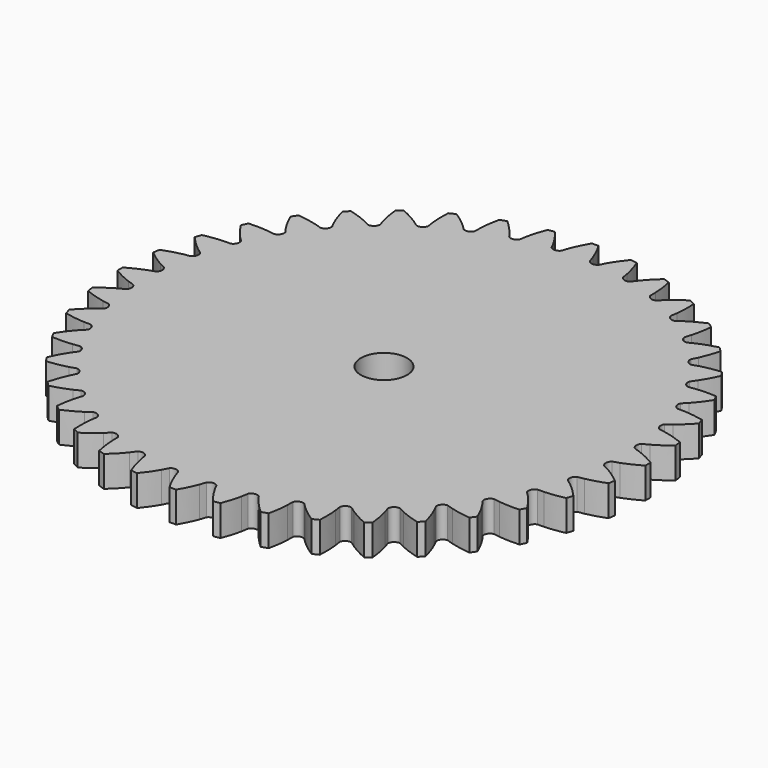
from build123d import *

# Parameters (mm, degrees)
EXTRUDE_DEPTH = 7
SKETCH_R      = 5.25
HOLE_DEPTH    = 25


with BuildPart() as part:
    # InvoluteGear → Extrude (new body)
    with BuildSketch(Plane.XY):
        with BuildLine():
            add(Edge.make_bspline(
                [(54.477305, -3.22984), (54.919908, -3.101193), (55.404504, -2.942227), (55.927796, -2.746211)],
                knots=[0, 0, 0, 0, 1, 1, 1, 1], degree=3))
            add(Edge.make_bspline(
                [(55.927796, -2.746211), (57.122187, -2.298699), (58.514128, -1.660277), (60.055864, -0.755382)],
                knots=[0, 0, 0, 0, 1, 1, 1, 1], degree=3))
            ThreePointArc((60.055864, -0.755382), (60.060307, 0.000181), (60.055245, 0.75574))
            add(Edge.make_bspline(
                [(60.055245, 0.75574), (58.514128, 1.660277), (57.122187, 2.298699), (55.927796, 2.746211)],
                knots=[0, 0, 0, 0, 1, 1, 1, 1], degree=3))
            add(Edge.make_bspline(
                [(55.927796, 2.746211), (55.404504, 2.942227), (54.919908, 3.101193), (54.477329, 3.229829)],
                knots=[0, 0, 0, 0, 1, 1, 1, 1], degree=3))
            ThreePointArc((54.477329, 3.229829), (53.932056, 4.244534), (54.311857, 5.332053))
            add(Edge.make_bspline(
                [(54.311857, 5.332053), (54.728886, 5.528354), (55.182648, 5.761171), (55.668834, 6.036634)],
                knots=[0, 0, 0, 0, 1, 1, 1, 1], degree=3))
            add(Edge.make_bspline(
                [(55.668834, 6.036634), (56.778513, 6.665481), (58.053447, 7.51379), (59.434644, 8.648724)],
                knots=[0, 0, 0, 0, 1, 1, 1, 1], degree=3))
            ThreePointArc((59.434644, 8.648724), (59.320837, 9.395681), (59.197641, 10.141146))
            add(Edge.make_bspline(
                [(59.197641, 10.141146), (57.533998, 10.793462), (56.059322, 11.206277), (54.80963, 11.461436)],
                knots=[0, 0, 0, 0, 1, 1, 1, 1], degree=3))
            add(Edge.make_bspline(
                [(54.80963, 11.461436), (54.262117, 11.573177), (53.758619, 11.654379), (53.301366, 11.712197)],
                knots=[0, 0, 0, 0, 1, 1, 1, 1], degree=3))
            ThreePointArc((53.301366, 11.712197), (52.604072, 12.629109), (52.809071, 13.762653))
            add(Edge.make_bspline(
                [(52.809071, 13.762653), (53.190258, 14.021775), (53.602012, 14.322709), (54.039121, 14.670837)],
                knots=[0, 0, 0, 0, 1, 1, 1, 1], degree=3))
            add(Edge.make_bspline(
                [(54.039121, 14.670837), (55.036765, 15.465534), (56.163297, 16.502843), (57.349947, 17.839871)],
                knots=[0, 0, 0, 0, 1, 1, 1, 1], degree=3))
            ThreePointArc((57.349947, 17.839871), (57.120691, 18.559828), (56.882396, 19.276843))
            add(Edge.make_bspline(
                [(56.882396, 19.276843), (55.137189, 19.660877), (53.616091, 19.837919), (52.341869, 19.894442)],
                knots=[0, 0, 0, 0, 1, 1, 1, 1], degree=3))
            add(Edge.make_bspline(
                [(52.341869, 19.894442), (51.783616, 19.919157), (51.273615, 19.920595), (50.812947, 19.906171)],
                knots=[0, 0, 0, 0, 1, 1, 1, 1], degree=3))
            ThreePointArc((50.812947, 19.906171), (49.980801, 20.702713), (50.005951, 21.854371))
            add(Edge.make_bspline(
                [(50.005951, 21.854371), (50.341908, 22.169933), (50.701517, 22.531575), (51.078785, 22.943796)],
                knots=[0, 0, 0, 0, 1, 1, 1, 1], degree=3))
            add(Edge.make_bspline(
                [(51.078785, 22.943796), (51.939828, 23.884774), (52.89022, 25.085541), (53.853103, 26.591741)],
                knots=[0, 0, 0, 0, 1, 1, 1, 1], degree=3))
            ThreePointArc((53.853103, 26.591741), (53.514043, 27.26697), (53.166516, 27.93788))
            add(Edge.make_bspline(
                [(53.166516, 27.93788), (51.38272, 28.044176), (49.852653, 27.981086), (48.585277, 27.83758)],
                knots=[0, 0, 0, 0, 1, 1, 1, 1], degree=3))
            add(Edge.make_bspline(
                [(48.585277, 27.83758), (48.030031, 27.774662), (47.526084, 27.6963), (47.073344, 27.609989)],
                knots=[0, 0, 0, 0, 1, 1, 1, 1], degree=3))
            ThreePointArc((47.073344, 27.609989), (46.126836, 28.266548), (45.971518, 29.407961))
            add(Edge.make_bspline(
                [(45.971518, 29.407961), (46.253974, 29.772194), (46.552583, 30.185639), (46.86072, 30.651802)],
                knots=[0, 0, 0, 0, 1, 1, 1, 1], degree=3))
            add(Edge.make_bspline(
                [(46.86072, 30.651802), (47.563961, 31.715892), (48.314811, 33.050549), (49.030217, 34.688834)],
                knots=[0, 0, 0, 0, 1, 1, 1, 1], degree=3))
            ThreePointArc((49.030217, 34.688834), (48.589703, 35.302709), (48.141501, 35.910994))
            add(Edge.make_bspline(
                [(48.141501, 35.910994), (46.363038, 35.736934), (44.861678, 35.435265), (43.632355, 35.095265)],
                knots=[0, 0, 0, 0, 1, 1, 1, 1], degree=3))
            add(Edge.make_bspline(
                [(43.632355, 35.095265), (43.093788, 34.946262), (42.608303, 34.79003), (42.174639, 34.633958)],
                knots=[0, 0, 0, 0, 1, 1, 1, 1], degree=3))
            ThreePointArc((42.174639, 34.633958), (41.137076, 35.134367), (40.805113, 36.23743))
            add(Edge.make_bspline(
                [(40.805113, 36.23743), (41.027114, 36.641365), (41.257369, 37.096432), (41.488788, 37.605059)],
                knots=[0, 0, 0, 0, 1, 1, 1, 1], degree=3))
            add(Edge.make_bspline(
                [(41.488788, 37.605059), (42.016911, 38.76606), (42.54973, 40.201744), (43.000045, 41.931773)],
                knots=[0, 0, 0, 0, 1, 1, 1, 1], degree=3))
            ThreePointArc((43.000045, 41.931773), (42.468923, 42.469178), (41.931082, 42.99986))
            add(Edge.make_bspline(
                [(41.931082, 42.99986), (40.201744, 42.54973), (38.76606, 42.016911), (37.605059, 41.488788)],
                knots=[0, 0, 0, 0, 1, 1, 1, 1], degree=3))
            add(Edge.make_bspline(
                [(37.605059, 41.488788), (37.096432, 41.257369), (36.641365, 41.027114), (36.237455, 40.805123)],
                knots=[0, 0, 0, 0, 1, 1, 1, 1], degree=3))
            ThreePointArc((36.237455, 40.805123), (35.134384, 41.137061), (34.633952, 42.174614))
            add(Edge.make_bspline(
                [(34.633952, 42.174614), (34.79003, 42.608303), (34.946262, 43.093788), (35.095265, 43.632355)],
                knots=[0, 0, 0, 0, 1, 1, 1, 1], degree=3))
            add(Edge.make_bspline(
                [(35.095265, 43.632355), (35.435265, 44.861678), (35.736934, 46.363038), (35.911068, 48.142212)],
                knots=[0, 0, 0, 0, 1, 1, 1, 1], degree=3))
            ThreePointArc((35.911068, 48.142212), (35.302416, 48.589916), (34.688181, 49.029927))
            add(Edge.make_bspline(
                [(34.688181, 49.029927), (33.050549, 48.314811), (31.715892, 47.563961), (30.651802, 46.86072)],
                knots=[0, 0, 0, 0, 1, 1, 1, 1], degree=3))
            add(Edge.make_bspline(
                [(30.651802, 46.86072), (30.185639, 46.552583), (29.772194, 46.253974), (29.407984, 45.971531)],
                knots=[0, 0, 0, 0, 1, 1, 1, 1], degree=3))
            ThreePointArc((29.407984, 45.971531), (28.266568, 46.126824), (27.609987, 47.073318))
            add(Edge.make_bspline(
                [(27.609987, 47.073318), (27.6963, 47.526084), (27.774662, 48.030031), (27.83758, 48.585277)],
                knots=[0, 0, 0, 0, 1, 1, 1, 1], degree=3))
            add(Edge.make_bspline(
                [(27.83758, 48.585277), (27.981086, 49.852653), (28.044176, 51.38272), (27.937842, 53.16723)],
                knots=[0, 0, 0, 0, 1, 1, 1, 1], degree=3))
            ThreePointArc((27.937842, 53.16723), (27.266648, 53.514208), (26.591141, 53.852714))
            add(Edge.make_bspline(
                [(26.591141, 53.852714), (25.085541, 52.89022), (23.884774, 51.939828), (22.943796, 51.078785)],
                knots=[0, 0, 0, 0, 1, 1, 1, 1], degree=3))
            add(Edge.make_bspline(
                [(22.943796, 51.078785), (22.531575, 50.701517), (22.169933, 50.341908), (21.854391, 50.005968)],
                knots=[0, 0, 0, 0, 1, 1, 1, 1], degree=3))
            ThreePointArc((21.854391, 50.005968), (20.702734, 49.980792), (19.906173, 50.812921))
            add(Edge.make_bspline(
                [(19.906173, 50.812921), (19.920595, 51.273615), (19.919157, 51.783616), (19.894442, 52.341869)],
                knots=[0, 0, 0, 0, 1, 1, 1, 1], degree=3))
            add(Edge.make_bspline(
                [(19.894442, 52.341869), (19.837919, 53.616091), (19.660877, 55.137189), (19.276694, 56.883095)],
                knots=[0, 0, 0, 0, 1, 1, 1, 1], degree=3))
            ThreePointArc((19.276694, 56.883095), (18.559484, 57.120802), (17.83934, 57.349469))
            add(Edge.make_bspline(
                [(17.83934, 57.349469), (16.502843, 56.163297), (15.465534, 55.036765), (14.670837, 54.039121)],
                knots=[0, 0, 0, 0, 1, 1, 1, 1], degree=3))
            add(Edge.make_bspline(
                [(14.670837, 54.039121), (14.322709, 53.602012), (14.021775, 53.190258), (13.76267, 52.809091)],
                knots=[0, 0, 0, 0, 1, 1, 1, 1], degree=3))
            ThreePointArc((13.76267, 52.809091), (12.629131, 52.604067), (11.712203, 53.301341))
            add(Edge.make_bspline(
                [(11.712203, 53.301341), (11.654379, 53.758619), (11.573177, 54.262117), (11.461436, 54.80963)],
                knots=[0, 0, 0, 0, 1, 1, 1, 1], degree=3))
            add(Edge.make_bspline(
                [(11.461436, 54.80963), (11.206277, 56.059322), (10.793462, 57.533998), (10.140889, 59.198309)],
                knots=[0, 0, 0, 0, 1, 1, 1, 1], degree=3))
            ThreePointArc((10.140889, 59.198309), (9.395323, 59.320893), (8.648274, 59.434089))
            add(Edge.make_bspline(
                [(8.648274, 59.434089), (7.51379, 58.053447), (6.665481, 56.778513), (6.036634, 55.668834)],
                knots=[0, 0, 0, 0, 1, 1, 1, 1], degree=3))
            add(Edge.make_bspline(
                [(6.036634, 55.668834), (5.761171, 55.182648), (5.528354, 54.728886), (5.332067, 54.31188)],
                knots=[0, 0, 0, 0, 1, 1, 1, 1], degree=3))
            ThreePointArc((5.332067, 54.31188), (4.244556, 53.932055), (3.22984, 54.477305))
            add(Edge.make_bspline(
                [(3.22984, 54.477305), (3.101193, 54.919908), (2.942227, 55.404504), (2.746211, 55.927796)],
                knots=[0, 0, 0, 0, 1, 1, 1, 1], degree=3))
            add(Edge.make_bspline(
                [(2.746211, 55.927796), (2.298699, 57.122187), (1.660277, 58.514128), (0.755382, 60.055864)],
                knots=[0, 0, 0, 0, 1, 1, 1, 1], degree=3))
            ThreePointArc((0.755382, 60.055864), (-0.000181, 60.060307), (-0.75574, 60.055245))
            add(Edge.make_bspline(
                [(-0.75574, 60.055245), (-1.660277, 58.514128), (-2.298699, 57.122187), (-2.746211, 55.927796)],
                knots=[0, 0, 0, 0, 1, 1, 1, 1], degree=3))
            add(Edge.make_bspline(
                [(-2.746211, 55.927796), (-2.942227, 55.404504), (-3.101193, 54.919908), (-3.229829, 54.477329)],
                knots=[0, 0, 0, 0, 1, 1, 1, 1], degree=3))
            ThreePointArc((-3.229829, 54.477329), (-4.244534, 53.932056), (-5.332053, 54.311857))
            add(Edge.make_bspline(
                [(-5.332053, 54.311857), (-5.528354, 54.728886), (-5.761171, 55.182648), (-6.036634, 55.668834)],
                knots=[0, 0, 0, 0, 1, 1, 1, 1], degree=3))
            add(Edge.make_bspline(
                [(-6.036634, 55.668834), (-6.665481, 56.778513), (-7.51379, 58.053447), (-8.648724, 59.434644)],
                knots=[0, 0, 0, 0, 1, 1, 1, 1], degree=3))
            ThreePointArc((-8.648724, 59.434644), (-9.395681, 59.320837), (-10.141146, 59.197641))
            add(Edge.make_bspline(
                [(-10.141146, 59.197641), (-10.793462, 57.533998), (-11.206277, 56.059322), (-11.461436, 54.80963)],
                knots=[0, 0, 0, 0, 1, 1, 1, 1], degree=3))
            add(Edge.make_bspline(
                [(-11.461436, 54.80963), (-11.573177, 54.262117), (-11.654379, 53.758619), (-11.712197, 53.301366)],
                knots=[0, 0, 0, 0, 1, 1, 1, 1], degree=3))
            ThreePointArc((-11.712197, 53.301366), (-12.629109, 52.604072), (-13.762653, 52.809071))
            add(Edge.make_bspline(
                [(-13.762653, 52.809071), (-14.021775, 53.190258), (-14.322709, 53.602012), (-14.670837, 54.039121)],
                knots=[0, 0, 0, 0, 1, 1, 1, 1], degree=3))
            add(Edge.make_bspline(
                [(-14.670837, 54.039121), (-15.465534, 55.036765), (-16.502843, 56.163297), (-17.839871, 57.349947)],
                knots=[0, 0, 0, 0, 1, 1, 1, 1], degree=3))
            ThreePointArc((-17.839871, 57.349947), (-18.559828, 57.120691), (-19.276843, 56.882396))
            add(Edge.make_bspline(
                [(-19.276843, 56.882396), (-19.660877, 55.137189), (-19.837919, 53.616091), (-19.894442, 52.341869)],
                knots=[0, 0, 0, 0, 1, 1, 1, 1], degree=3))
            add(Edge.make_bspline(
                [(-19.894442, 52.341869), (-19.919157, 51.783616), (-19.920595, 51.273615), (-19.906171, 50.812947)],
                knots=[0, 0, 0, 0, 1, 1, 1, 1], degree=3))
            ThreePointArc((-19.906171, 50.812947), (-20.702713, 49.980801), (-21.854371, 50.005951))
            add(Edge.make_bspline(
                [(-21.854371, 50.005951), (-22.169933, 50.341908), (-22.531575, 50.701517), (-22.943796, 51.078785)],
                knots=[0, 0, 0, 0, 1, 1, 1, 1], degree=3))
            add(Edge.make_bspline(
                [(-22.943796, 51.078785), (-23.884774, 51.939828), (-25.085541, 52.89022), (-26.591741, 53.853103)],
                knots=[0, 0, 0, 0, 1, 1, 1, 1], degree=3))
            ThreePointArc((-26.591741, 53.853103), (-27.26697, 53.514043), (-27.93788, 53.166516))
            add(Edge.make_bspline(
                [(-27.93788, 53.166516), (-28.044176, 51.38272), (-27.981086, 49.852653), (-27.83758, 48.585277)],
                knots=[0, 0, 0, 0, 1, 1, 1, 1], degree=3))
            add(Edge.make_bspline(
                [(-27.83758, 48.585277), (-27.774662, 48.030031), (-27.6963, 47.526084), (-27.609989, 47.073344)],
                knots=[0, 0, 0, 0, 1, 1, 1, 1], degree=3))
            ThreePointArc((-27.609989, 47.073344), (-28.266548, 46.126836), (-29.407961, 45.971518))
            add(Edge.make_bspline(
                [(-29.407961, 45.971518), (-29.772194, 46.253974), (-30.185639, 46.552583), (-30.651802, 46.86072)],
                knots=[0, 0, 0, 0, 1, 1, 1, 1], degree=3))
            add(Edge.make_bspline(
                [(-30.651802, 46.86072), (-31.715892, 47.563961), (-33.050549, 48.314811), (-34.688834, 49.030217)],
                knots=[0, 0, 0, 0, 1, 1, 1, 1], degree=3))
            ThreePointArc((-34.688834, 49.030217), (-35.302709, 48.589703), (-35.910994, 48.141501))
            add(Edge.make_bspline(
                [(-35.910994, 48.141501), (-35.736934, 46.363038), (-35.435265, 44.861678), (-35.095265, 43.632355)],
                knots=[0, 0, 0, 0, 1, 1, 1, 1], degree=3))
            add(Edge.make_bspline(
                [(-35.095265, 43.632355), (-34.946262, 43.093788), (-34.79003, 42.608303), (-34.633958, 42.174639)],
                knots=[0, 0, 0, 0, 1, 1, 1, 1], degree=3))
            ThreePointArc((-34.633958, 42.174639), (-35.134367, 41.137076), (-36.23743, 40.805113))
            add(Edge.make_bspline(
                [(-36.23743, 40.805113), (-36.641365, 41.027114), (-37.096432, 41.257369), (-37.605059, 41.488788)],
                knots=[0, 0, 0, 0, 1, 1, 1, 1], degree=3))
            add(Edge.make_bspline(
                [(-37.605059, 41.488788), (-38.76606, 42.016911), (-40.201744, 42.54973), (-41.931773, 43.000045)],
                knots=[0, 0, 0, 0, 1, 1, 1, 1], degree=3))
            ThreePointArc((-41.931773, 43.000045), (-42.469178, 42.468923), (-42.99986, 41.931082))
            add(Edge.make_bspline(
                [(-42.99986, 41.931082), (-42.54973, 40.201744), (-42.016911, 38.76606), (-41.488788, 37.605059)],
                knots=[0, 0, 0, 0, 1, 1, 1, 1], degree=3))
            add(Edge.make_bspline(
                [(-41.488788, 37.605059), (-41.257369, 37.096432), (-41.027114, 36.641365), (-40.805123, 36.237455)],
                knots=[0, 0, 0, 0, 1, 1, 1, 1], degree=3))
            ThreePointArc((-40.805123, 36.237455), (-41.137061, 35.134384), (-42.174614, 34.633952))
            add(Edge.make_bspline(
                [(-42.174614, 34.633952), (-42.608303, 34.79003), (-43.093788, 34.946262), (-43.632355, 35.095265)],
                knots=[0, 0, 0, 0, 1, 1, 1, 1], degree=3))
            add(Edge.make_bspline(
                [(-43.632355, 35.095265), (-44.861678, 35.435265), (-46.363038, 35.736934), (-48.142212, 35.911068)],
                knots=[0, 0, 0, 0, 1, 1, 1, 1], degree=3))
            ThreePointArc((-48.142212, 35.911068), (-48.589916, 35.302416), (-49.029927, 34.688181))
            add(Edge.make_bspline(
                [(-49.029927, 34.688181), (-48.314811, 33.050549), (-47.563961, 31.715892), (-46.86072, 30.651802)],
                knots=[0, 0, 0, 0, 1, 1, 1, 1], degree=3))
            add(Edge.make_bspline(
                [(-46.86072, 30.651802), (-46.552583, 30.185639), (-46.253974, 29.772194), (-45.971531, 29.407984)],
                knots=[0, 0, 0, 0, 1, 1, 1, 1], degree=3))
            ThreePointArc((-45.971531, 29.407984), (-46.126824, 28.266568), (-47.073318, 27.609987))
            add(Edge.make_bspline(
                [(-47.073318, 27.609987), (-47.526084, 27.6963), (-48.030031, 27.774662), (-48.585277, 27.83758)],
                knots=[0, 0, 0, 0, 1, 1, 1, 1], degree=3))
            add(Edge.make_bspline(
                [(-48.585277, 27.83758), (-49.852653, 27.981086), (-51.38272, 28.044176), (-53.16723, 27.937842)],
                knots=[0, 0, 0, 0, 1, 1, 1, 1], degree=3))
            ThreePointArc((-53.16723, 27.937842), (-53.514208, 27.266648), (-53.852714, 26.591141))
            add(Edge.make_bspline(
                [(-53.852714, 26.591141), (-52.89022, 25.085541), (-51.939828, 23.884774), (-51.078785, 22.943796)],
                knots=[0, 0, 0, 0, 1, 1, 1, 1], degree=3))
            add(Edge.make_bspline(
                [(-51.078785, 22.943796), (-50.701517, 22.531575), (-50.341908, 22.169933), (-50.005968, 21.854391)],
                knots=[0, 0, 0, 0, 1, 1, 1, 1], degree=3))
            ThreePointArc((-50.005968, 21.854391), (-49.980792, 20.702734), (-50.812921, 19.906173))
            add(Edge.make_bspline(
                [(-50.812921, 19.906173), (-51.273615, 19.920595), (-51.783616, 19.919157), (-52.341869, 19.894442)],
                knots=[0, 0, 0, 0, 1, 1, 1, 1], degree=3))
            add(Edge.make_bspline(
                [(-52.341869, 19.894442), (-53.616091, 19.837919), (-55.137189, 19.660877), (-56.883095, 19.276694)],
                knots=[0, 0, 0, 0, 1, 1, 1, 1], degree=3))
            ThreePointArc((-56.883095, 19.276694), (-57.120802, 18.559484), (-57.349469, 17.83934))
            add(Edge.make_bspline(
                [(-57.349469, 17.83934), (-56.163297, 16.502843), (-55.036765, 15.465534), (-54.039121, 14.670837)],
                knots=[0, 0, 0, 0, 1, 1, 1, 1], degree=3))
            add(Edge.make_bspline(
                [(-54.039121, 14.670837), (-53.602012, 14.322709), (-53.190258, 14.021775), (-52.809091, 13.76267)],
                knots=[0, 0, 0, 0, 1, 1, 1, 1], degree=3))
            ThreePointArc((-52.809091, 13.76267), (-52.604067, 12.629131), (-53.301341, 11.712203))
            add(Edge.make_bspline(
                [(-53.301341, 11.712203), (-53.758619, 11.654379), (-54.262117, 11.573177), (-54.80963, 11.461436)],
                knots=[0, 0, 0, 0, 1, 1, 1, 1], degree=3))
            add(Edge.make_bspline(
                [(-54.80963, 11.461436), (-56.059322, 11.206277), (-57.533998, 10.793462), (-59.198309, 10.140889)],
                knots=[0, 0, 0, 0, 1, 1, 1, 1], degree=3))
            ThreePointArc((-59.198309, 10.140889), (-59.320893, 9.395323), (-59.434089, 8.648274))
            add(Edge.make_bspline(
                [(-59.434089, 8.648274), (-58.053447, 7.51379), (-56.778513, 6.665481), (-55.668834, 6.036634)],
                knots=[0, 0, 0, 0, 1, 1, 1, 1], degree=3))
            add(Edge.make_bspline(
                [(-55.668834, 6.036634), (-55.182648, 5.761171), (-54.728886, 5.528354), (-54.31188, 5.332067)],
                knots=[0, 0, 0, 0, 1, 1, 1, 1], degree=3))
            ThreePointArc((-54.31188, 5.332067), (-53.932055, 4.244556), (-54.477305, 3.22984))
            add(Edge.make_bspline(
                [(-54.477305, 3.22984), (-54.919908, 3.101193), (-55.404504, 2.942227), (-55.927796, 2.746211)],
                knots=[0, 0, 0, 0, 1, 1, 1, 1], degree=3))
            add(Edge.make_bspline(
                [(-55.927796, 2.746211), (-57.122187, 2.298699), (-58.514128, 1.660277), (-60.055864, 0.755382)],
                knots=[0, 0, 0, 0, 1, 1, 1, 1], degree=3))
            ThreePointArc((-60.055864, 0.755382), (-60.060307, -0.000181), (-60.055245, -0.75574))
            add(Edge.make_bspline(
                [(-60.055245, -0.75574), (-58.514128, -1.660277), (-57.122187, -2.298699), (-55.927796, -2.746211)],
                knots=[0, 0, 0, 0, 1, 1, 1, 1], degree=3))
            add(Edge.make_bspline(
                [(-55.927796, -2.746211), (-55.404504, -2.942227), (-54.919908, -3.101193), (-54.477329, -3.229829)],
                knots=[0, 0, 0, 0, 1, 1, 1, 1], degree=3))
            ThreePointArc((-54.477329, -3.229829), (-53.932056, -4.244534), (-54.311857, -5.332053))
            add(Edge.make_bspline(
                [(-54.311857, -5.332053), (-54.728886, -5.528354), (-55.182648, -5.761171), (-55.668834, -6.036634)],
                knots=[0, 0, 0, 0, 1, 1, 1, 1], degree=3))
            add(Edge.make_bspline(
                [(-55.668834, -6.036634), (-56.778513, -6.665481), (-58.053447, -7.51379), (-59.434644, -8.648724)],
                knots=[0, 0, 0, 0, 1, 1, 1, 1], degree=3))
            ThreePointArc((-59.434644, -8.648724), (-59.320837, -9.395681), (-59.197641, -10.141146))
            add(Edge.make_bspline(
                [(-59.197641, -10.141146), (-57.533998, -10.793462), (-56.059322, -11.206277), (-54.80963, -11.461436)],
                knots=[0, 0, 0, 0, 1, 1, 1, 1], degree=3))
            add(Edge.make_bspline(
                [(-54.80963, -11.461436), (-54.262117, -11.573177), (-53.758619, -11.654379), (-53.301366, -11.712197)],
                knots=[0, 0, 0, 0, 1, 1, 1, 1], degree=3))
            ThreePointArc((-53.301366, -11.712197), (-52.604072, -12.629109), (-52.809071, -13.762653))
            add(Edge.make_bspline(
                [(-52.809071, -13.762653), (-53.190258, -14.021775), (-53.602012, -14.322709), (-54.039121, -14.670837)],
                knots=[0, 0, 0, 0, 1, 1, 1, 1], degree=3))
            add(Edge.make_bspline(
                [(-54.039121, -14.670837), (-55.036765, -15.465534), (-56.163297, -16.502843), (-57.349947, -17.839871)],
                knots=[0, 0, 0, 0, 1, 1, 1, 1], degree=3))
            ThreePointArc((-57.349947, -17.839871), (-57.120691, -18.559828), (-56.882396, -19.276843))
            add(Edge.make_bspline(
                [(-56.882396, -19.276843), (-55.137189, -19.660877), (-53.616091, -19.837919), (-52.341869, -19.894442)],
                knots=[0, 0, 0, 0, 1, 1, 1, 1], degree=3))
            add(Edge.make_bspline(
                [(-52.341869, -19.894442), (-51.783616, -19.919157), (-51.273615, -19.920595), (-50.812947, -19.906171)],
                knots=[0, 0, 0, 0, 1, 1, 1, 1], degree=3))
            ThreePointArc((-50.812947, -19.906171), (-49.980801, -20.702713), (-50.005951, -21.854371))
            add(Edge.make_bspline(
                [(-50.005951, -21.854371), (-50.341908, -22.169933), (-50.701517, -22.531575), (-51.078785, -22.943796)],
                knots=[0, 0, 0, 0, 1, 1, 1, 1], degree=3))
            add(Edge.make_bspline(
                [(-51.078785, -22.943796), (-51.939828, -23.884774), (-52.89022, -25.085541), (-53.853103, -26.591741)],
                knots=[0, 0, 0, 0, 1, 1, 1, 1], degree=3))
            ThreePointArc((-53.853103, -26.591741), (-53.514043, -27.26697), (-53.166516, -27.93788))
            add(Edge.make_bspline(
                [(-53.166516, -27.93788), (-51.38272, -28.044176), (-49.852653, -27.981086), (-48.585277, -27.83758)],
                knots=[0, 0, 0, 0, 1, 1, 1, 1], degree=3))
            add(Edge.make_bspline(
                [(-48.585277, -27.83758), (-48.030031, -27.774662), (-47.526084, -27.6963), (-47.073344, -27.609989)],
                knots=[0, 0, 0, 0, 1, 1, 1, 1], degree=3))
            ThreePointArc((-47.073344, -27.609989), (-46.126836, -28.266548), (-45.971518, -29.407961))
            add(Edge.make_bspline(
                [(-45.971518, -29.407961), (-46.253974, -29.772194), (-46.552583, -30.185639), (-46.86072, -30.651802)],
                knots=[0, 0, 0, 0, 1, 1, 1, 1], degree=3))
            add(Edge.make_bspline(
                [(-46.86072, -30.651802), (-47.563961, -31.715892), (-48.314811, -33.050549), (-49.030217, -34.688834)],
                knots=[0, 0, 0, 0, 1, 1, 1, 1], degree=3))
            ThreePointArc((-49.030217, -34.688834), (-48.589703, -35.302709), (-48.141501, -35.910994))
            add(Edge.make_bspline(
                [(-48.141501, -35.910994), (-46.363038, -35.736934), (-44.861678, -35.435265), (-43.632355, -35.095265)],
                knots=[0, 0, 0, 0, 1, 1, 1, 1], degree=3))
            add(Edge.make_bspline(
                [(-43.632355, -35.095265), (-43.093788, -34.946262), (-42.608303, -34.79003), (-42.174639, -34.633958)],
                knots=[0, 0, 0, 0, 1, 1, 1, 1], degree=3))
            ThreePointArc((-42.174639, -34.633958), (-41.137076, -35.134367), (-40.805113, -36.23743))
            add(Edge.make_bspline(
                [(-40.805113, -36.23743), (-41.027114, -36.641365), (-41.257369, -37.096432), (-41.488788, -37.605059)],
                knots=[0, 0, 0, 0, 1, 1, 1, 1], degree=3))
            add(Edge.make_bspline(
                [(-41.488788, -37.605059), (-42.016911, -38.76606), (-42.54973, -40.201744), (-43.000045, -41.931773)],
                knots=[0, 0, 0, 0, 1, 1, 1, 1], degree=3))
            ThreePointArc((-43.000045, -41.931773), (-42.468923, -42.469178), (-41.931082, -42.99986))
            add(Edge.make_bspline(
                [(-41.931082, -42.99986), (-40.201744, -42.54973), (-38.76606, -42.016911), (-37.605059, -41.488788)],
                knots=[0, 0, 0, 0, 1, 1, 1, 1], degree=3))
            add(Edge.make_bspline(
                [(-37.605059, -41.488788), (-37.096432, -41.257369), (-36.641365, -41.027114), (-36.237455, -40.805123)],
                knots=[0, 0, 0, 0, 1, 1, 1, 1], degree=3))
            ThreePointArc((-36.237455, -40.805123), (-35.134384, -41.137061), (-34.633952, -42.174614))
            add(Edge.make_bspline(
                [(-34.633952, -42.174614), (-34.79003, -42.608303), (-34.946262, -43.093788), (-35.095265, -43.632355)],
                knots=[0, 0, 0, 0, 1, 1, 1, 1], degree=3))
            add(Edge.make_bspline(
                [(-35.095265, -43.632355), (-35.435265, -44.861678), (-35.736934, -46.363038), (-35.911068, -48.142212)],
                knots=[0, 0, 0, 0, 1, 1, 1, 1], degree=3))
            ThreePointArc((-35.911068, -48.142212), (-35.302416, -48.589916), (-34.688181, -49.029927))
            add(Edge.make_bspline(
                [(-34.688181, -49.029927), (-33.050549, -48.314811), (-31.715892, -47.563961), (-30.651802, -46.86072)],
                knots=[0, 0, 0, 0, 1, 1, 1, 1], degree=3))
            add(Edge.make_bspline(
                [(-30.651802, -46.86072), (-30.185639, -46.552583), (-29.772194, -46.253974), (-29.407984, -45.971531)],
                knots=[0, 0, 0, 0, 1, 1, 1, 1], degree=3))
            ThreePointArc((-29.407984, -45.971531), (-28.266568, -46.126824), (-27.609987, -47.073318))
            add(Edge.make_bspline(
                [(-27.609987, -47.073318), (-27.6963, -47.526084), (-27.774662, -48.030031), (-27.83758, -48.585277)],
                knots=[0, 0, 0, 0, 1, 1, 1, 1], degree=3))
            add(Edge.make_bspline(
                [(-27.83758, -48.585277), (-27.981086, -49.852653), (-28.044176, -51.38272), (-27.937842, -53.16723)],
                knots=[0, 0, 0, 0, 1, 1, 1, 1], degree=3))
            ThreePointArc((-27.937842, -53.16723), (-27.266648, -53.514208), (-26.591141, -53.852714))
            add(Edge.make_bspline(
                [(-26.591141, -53.852714), (-25.085541, -52.89022), (-23.884774, -51.939828), (-22.943796, -51.078785)],
                knots=[0, 0, 0, 0, 1, 1, 1, 1], degree=3))
            add(Edge.make_bspline(
                [(-22.943796, -51.078785), (-22.531575, -50.701517), (-22.169933, -50.341908), (-21.854391, -50.005968)],
                knots=[0, 0, 0, 0, 1, 1, 1, 1], degree=3))
            ThreePointArc((-21.854391, -50.005968), (-20.702734, -49.980792), (-19.906173, -50.812921))
            add(Edge.make_bspline(
                [(-19.906173, -50.812921), (-19.920595, -51.273615), (-19.919157, -51.783616), (-19.894442, -52.341869)],
                knots=[0, 0, 0, 0, 1, 1, 1, 1], degree=3))
            add(Edge.make_bspline(
                [(-19.894442, -52.341869), (-19.837919, -53.616091), (-19.660877, -55.137189), (-19.276694, -56.883095)],
                knots=[0, 0, 0, 0, 1, 1, 1, 1], degree=3))
            ThreePointArc((-19.276694, -56.883095), (-18.559484, -57.120802), (-17.83934, -57.349469))
            add(Edge.make_bspline(
                [(-17.83934, -57.349469), (-16.502843, -56.163297), (-15.465534, -55.036765), (-14.670837, -54.039121)],
                knots=[0, 0, 0, 0, 1, 1, 1, 1], degree=3))
            add(Edge.make_bspline(
                [(-14.670837, -54.039121), (-14.322709, -53.602012), (-14.021775, -53.190258), (-13.76267, -52.809091)],
                knots=[0, 0, 0, 0, 1, 1, 1, 1], degree=3))
            ThreePointArc((-13.76267, -52.809091), (-12.629131, -52.604067), (-11.712203, -53.301341))
            add(Edge.make_bspline(
                [(-11.712203, -53.301341), (-11.654379, -53.758619), (-11.573177, -54.262117), (-11.461436, -54.80963)],
                knots=[0, 0, 0, 0, 1, 1, 1, 1], degree=3))
            add(Edge.make_bspline(
                [(-11.461436, -54.80963), (-11.206277, -56.059322), (-10.793462, -57.533998), (-10.140889, -59.198309)],
                knots=[0, 0, 0, 0, 1, 1, 1, 1], degree=3))
            ThreePointArc((-10.140889, -59.198309), (-9.395323, -59.320893), (-8.648274, -59.434089))
            add(Edge.make_bspline(
                [(-8.648274, -59.434089), (-7.51379, -58.053447), (-6.665481, -56.778513), (-6.036634, -55.668834)],
                knots=[0, 0, 0, 0, 1, 1, 1, 1], degree=3))
            add(Edge.make_bspline(
                [(-6.036634, -55.668834), (-5.761171, -55.182648), (-5.528354, -54.728886), (-5.332067, -54.31188)],
                knots=[0, 0, 0, 0, 1, 1, 1, 1], degree=3))
            ThreePointArc((-5.332067, -54.31188), (-4.244556, -53.932055), (-3.22984, -54.477305))
            add(Edge.make_bspline(
                [(-3.22984, -54.477305), (-3.101193, -54.919908), (-2.942227, -55.404504), (-2.746211, -55.927796)],
                knots=[0, 0, 0, 0, 1, 1, 1, 1], degree=3))
            add(Edge.make_bspline(
                [(-2.746211, -55.927796), (-2.298699, -57.122187), (-1.660277, -58.514128), (-0.755382, -60.055864)],
                knots=[0, 0, 0, 0, 1, 1, 1, 1], degree=3))
            ThreePointArc((-0.755382, -60.055864), (0.000181, -60.060307), (0.75574, -60.055245))
            add(Edge.make_bspline(
                [(0.75574, -60.055245), (1.660277, -58.514128), (2.298699, -57.122187), (2.746211, -55.927796)],
                knots=[0, 0, 0, 0, 1, 1, 1, 1], degree=3))
            add(Edge.make_bspline(
                [(2.746211, -55.927796), (2.942227, -55.404504), (3.101193, -54.919908), (3.229829, -54.477329)],
                knots=[0, 0, 0, 0, 1, 1, 1, 1], degree=3))
            ThreePointArc((3.229829, -54.477329), (4.244534, -53.932056), (5.332053, -54.311857))
            add(Edge.make_bspline(
                [(5.332053, -54.311857), (5.528354, -54.728886), (5.761171, -55.182648), (6.036634, -55.668834)],
                knots=[0, 0, 0, 0, 1, 1, 1, 1], degree=3))
            add(Edge.make_bspline(
                [(6.036634, -55.668834), (6.665481, -56.778513), (7.51379, -58.053447), (8.648724, -59.434644)],
                knots=[0, 0, 0, 0, 1, 1, 1, 1], degree=3))
            ThreePointArc((8.648724, -59.434644), (9.395681, -59.320837), (10.141146, -59.197641))
            add(Edge.make_bspline(
                [(10.141146, -59.197641), (10.793462, -57.533998), (11.206277, -56.059322), (11.461436, -54.80963)],
                knots=[0, 0, 0, 0, 1, 1, 1, 1], degree=3))
            add(Edge.make_bspline(
                [(11.461436, -54.80963), (11.573177, -54.262117), (11.654379, -53.758619), (11.712197, -53.301366)],
                knots=[0, 0, 0, 0, 1, 1, 1, 1], degree=3))
            ThreePointArc((11.712197, -53.301366), (12.629109, -52.604072), (13.762653, -52.809071))
            add(Edge.make_bspline(
                [(13.762653, -52.809071), (14.021775, -53.190258), (14.322709, -53.602012), (14.670837, -54.039121)],
                knots=[0, 0, 0, 0, 1, 1, 1, 1], degree=3))
            add(Edge.make_bspline(
                [(14.670837, -54.039121), (15.465534, -55.036765), (16.502843, -56.163297), (17.839871, -57.349947)],
                knots=[0, 0, 0, 0, 1, 1, 1, 1], degree=3))
            ThreePointArc((17.839871, -57.349947), (18.559828, -57.120691), (19.276843, -56.882396))
            add(Edge.make_bspline(
                [(19.276843, -56.882396), (19.660877, -55.137189), (19.837919, -53.616091), (19.894442, -52.341869)],
                knots=[0, 0, 0, 0, 1, 1, 1, 1], degree=3))
            add(Edge.make_bspline(
                [(19.894442, -52.341869), (19.919157, -51.783616), (19.920595, -51.273615), (19.906171, -50.812947)],
                knots=[0, 0, 0, 0, 1, 1, 1, 1], degree=3))
            ThreePointArc((19.906171, -50.812947), (20.702713, -49.980801), (21.854371, -50.005951))
            add(Edge.make_bspline(
                [(21.854371, -50.005951), (22.169933, -50.341908), (22.531575, -50.701517), (22.943796, -51.078785)],
                knots=[0, 0, 0, 0, 1, 1, 1, 1], degree=3))
            add(Edge.make_bspline(
                [(22.943796, -51.078785), (23.884774, -51.939828), (25.085541, -52.89022), (26.591741, -53.853103)],
                knots=[0, 0, 0, 0, 1, 1, 1, 1], degree=3))
            ThreePointArc((26.591741, -53.853103), (27.26697, -53.514043), (27.93788, -53.166516))
            add(Edge.make_bspline(
                [(27.93788, -53.166516), (28.044176, -51.38272), (27.981086, -49.852653), (27.83758, -48.585277)],
                knots=[0, 0, 0, 0, 1, 1, 1, 1], degree=3))
            add(Edge.make_bspline(
                [(27.83758, -48.585277), (27.774662, -48.030031), (27.6963, -47.526084), (27.609989, -47.073344)],
                knots=[0, 0, 0, 0, 1, 1, 1, 1], degree=3))
            ThreePointArc((27.609989, -47.073344), (28.266548, -46.126836), (29.407961, -45.971518))
            add(Edge.make_bspline(
                [(29.407961, -45.971518), (29.772194, -46.253974), (30.185639, -46.552583), (30.651802, -46.86072)],
                knots=[0, 0, 0, 0, 1, 1, 1, 1], degree=3))
            add(Edge.make_bspline(
                [(30.651802, -46.86072), (31.715892, -47.563961), (33.050549, -48.314811), (34.688834, -49.030217)],
                knots=[0, 0, 0, 0, 1, 1, 1, 1], degree=3))
            ThreePointArc((34.688834, -49.030217), (35.302709, -48.589703), (35.910994, -48.141501))
            add(Edge.make_bspline(
                [(35.910994, -48.141501), (35.736934, -46.363038), (35.435265, -44.861678), (35.095265, -43.632355)],
                knots=[0, 0, 0, 0, 1, 1, 1, 1], degree=3))
            add(Edge.make_bspline(
                [(35.095265, -43.632355), (34.946262, -43.093788), (34.79003, -42.608303), (34.633958, -42.174639)],
                knots=[0, 0, 0, 0, 1, 1, 1, 1], degree=3))
            ThreePointArc((34.633958, -42.174639), (35.134367, -41.137076), (36.23743, -40.805113))
            add(Edge.make_bspline(
                [(36.23743, -40.805113), (36.641365, -41.027114), (37.096432, -41.257369), (37.605059, -41.488788)],
                knots=[0, 0, 0, 0, 1, 1, 1, 1], degree=3))
            add(Edge.make_bspline(
                [(37.605059, -41.488788), (38.76606, -42.016911), (40.201744, -42.54973), (41.931773, -43.000045)],
                knots=[0, 0, 0, 0, 1, 1, 1, 1], degree=3))
            ThreePointArc((41.931773, -43.000045), (42.469178, -42.468923), (42.99986, -41.931082))
            add(Edge.make_bspline(
                [(42.99986, -41.931082), (42.54973, -40.201744), (42.016911, -38.76606), (41.488788, -37.605059)],
                knots=[0, 0, 0, 0, 1, 1, 1, 1], degree=3))
            add(Edge.make_bspline(
                [(41.488788, -37.605059), (41.257369, -37.096432), (41.027114, -36.641365), (40.805123, -36.237455)],
                knots=[0, 0, 0, 0, 1, 1, 1, 1], degree=3))
            ThreePointArc((40.805123, -36.237455), (41.137061, -35.134384), (42.174614, -34.633952))
            add(Edge.make_bspline(
                [(42.174614, -34.633952), (42.608303, -34.79003), (43.093788, -34.946262), (43.632355, -35.095265)],
                knots=[0, 0, 0, 0, 1, 1, 1, 1], degree=3))
            add(Edge.make_bspline(
                [(43.632355, -35.095265), (44.861678, -35.435265), (46.363038, -35.736934), (48.142212, -35.911068)],
                knots=[0, 0, 0, 0, 1, 1, 1, 1], degree=3))
            ThreePointArc((48.142212, -35.911068), (48.589916, -35.302416), (49.029927, -34.688181))
            add(Edge.make_bspline(
                [(49.029927, -34.688181), (48.314811, -33.050549), (47.563961, -31.715892), (46.86072, -30.651802)],
                knots=[0, 0, 0, 0, 1, 1, 1, 1], degree=3))
            add(Edge.make_bspline(
                [(46.86072, -30.651802), (46.552583, -30.185639), (46.253974, -29.772194), (45.971531, -29.407984)],
                knots=[0, 0, 0, 0, 1, 1, 1, 1], degree=3))
            ThreePointArc((45.971531, -29.407984), (46.126824, -28.266568), (47.073318, -27.609987))
            add(Edge.make_bspline(
                [(47.073318, -27.609987), (47.526084, -27.6963), (48.030031, -27.774662), (48.585277, -27.83758)],
                knots=[0, 0, 0, 0, 1, 1, 1, 1], degree=3))
            add(Edge.make_bspline(
                [(48.585277, -27.83758), (49.852653, -27.981086), (51.38272, -28.044176), (53.16723, -27.937842)],
                knots=[0, 0, 0, 0, 1, 1, 1, 1], degree=3))
            ThreePointArc((53.16723, -27.937842), (53.514208, -27.266648), (53.852714, -26.591141))
            add(Edge.make_bspline(
                [(53.852714, -26.591141), (52.89022, -25.085541), (51.939828, -23.884774), (51.078785, -22.943796)],
                knots=[0, 0, 0, 0, 1, 1, 1, 1], degree=3))
            add(Edge.make_bspline(
                [(51.078785, -22.943796), (50.701517, -22.531575), (50.341908, -22.169933), (50.005968, -21.854391)],
                knots=[0, 0, 0, 0, 1, 1, 1, 1], degree=3))
            ThreePointArc((50.005968, -21.854391), (49.980792, -20.702734), (50.812921, -19.906173))
            add(Edge.make_bspline(
                [(50.812921, -19.906173), (51.273615, -19.920595), (51.783616, -19.919157), (52.341869, -19.894442)],
                knots=[0, 0, 0, 0, 1, 1, 1, 1], degree=3))
            add(Edge.make_bspline(
                [(52.341869, -19.894442), (53.616091, -19.837919), (55.137189, -19.660877), (56.883095, -19.276694)],
                knots=[0, 0, 0, 0, 1, 1, 1, 1], degree=3))
            ThreePointArc((56.883095, -19.276694), (57.120802, -18.559484), (57.349469, -17.83934))
            add(Edge.make_bspline(
                [(57.349469, -17.83934), (56.163297, -16.502843), (55.036765, -15.465534), (54.039121, -14.670837)],
                knots=[0, 0, 0, 0, 1, 1, 1, 1], degree=3))
            add(Edge.make_bspline(
                [(54.039121, -14.670837), (53.602012, -14.322709), (53.190258, -14.021775), (52.809091, -13.76267)],
                knots=[0, 0, 0, 0, 1, 1, 1, 1], degree=3))
            ThreePointArc((52.809091, -13.76267), (52.604067, -12.629131), (53.301341, -11.712203))
            add(Edge.make_bspline(
                [(53.301341, -11.712203), (53.758619, -11.654379), (54.262117, -11.573177), (54.80963, -11.461436)],
                knots=[0, 0, 0, 0, 1, 1, 1, 1], degree=3))
            add(Edge.make_bspline(
                [(54.80963, -11.461436), (56.059322, -11.206277), (57.533998, -10.793462), (59.198309, -10.140889)],
                knots=[0, 0, 0, 0, 1, 1, 1, 1], degree=3))
            ThreePointArc((59.198309, -10.140889), (59.320893, -9.395323), (59.434089, -8.648274))
            add(Edge.make_bspline(
                [(59.434089, -8.648274), (58.053447, -7.51379), (56.778513, -6.665481), (55.668834, -6.036634)],
                knots=[0, 0, 0, 0, 1, 1, 1, 1], degree=3))
            add(Edge.make_bspline(
                [(55.668834, -6.036634), (55.182648, -5.761171), (54.728886, -5.528354), (54.31188, -5.332067)],
                knots=[0, 0, 0, 0, 1, 1, 1, 1], degree=3))
            ThreePointArc((54.31188, -5.332067), (53.932055, -4.244556), (54.477305, -3.22984))
        make_face()
    extrude(amount=EXTRUDE_DEPTH)

    # Sketch (on Face241 of BaseFeature) → Hole (cut)
    with BuildSketch(Plane(origin=(0, 0, 0), x_dir=(1, 0, 0), z_dir=(0, 0, -1))):
        Circle(SKETCH_R)
    extrude(amount=-HOLE_DEPTH, mode=Mode.SUBTRACT)


solid = part.part
